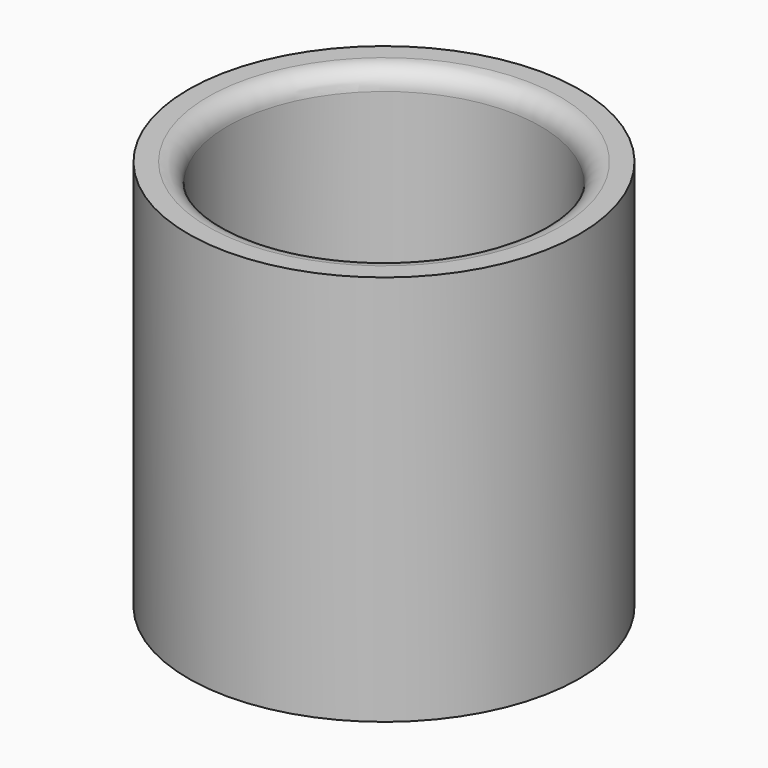
from build123d import *

# Parameters (mm, degrees)
F2_R     = 10
F2_R_2   = 8
F3_DEPTH = 20
F4_R     = 1
F5_R     = 1


with BuildPart() as f3:
    # F2 (on Top) → F3 (new body)
    with BuildSketch(Plane.XY):
        Circle(F2_R)
        Circle(F2_R_2, mode=Mode.SUBTRACT)
    extrude(amount=F3_DEPTH)

    # F4
    f4_edges = [f3.edges().sort_by_distance(p)[0] for p in [
        (-8, 0, 20),
    ]]
    fillet(f4_edges, radius=F4_R)

    # F5
    f5_edges = [f3.edges().sort_by_distance(p)[0] for p in [
        (-8, 0, 0),
    ]]
    fillet(f5_edges, radius=F5_R)


solid = f3.part
